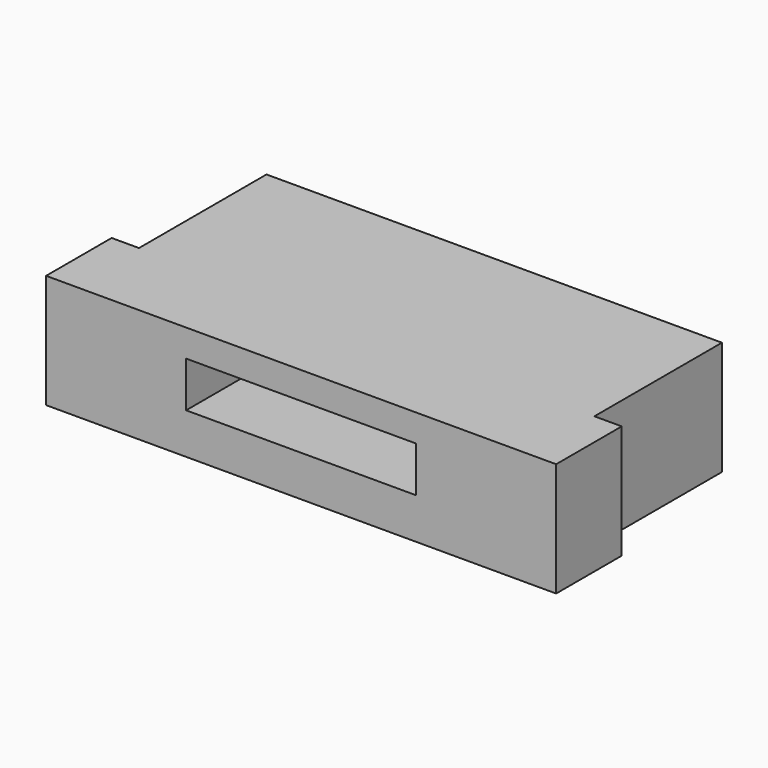
from build123d import *

# Parameters (mm, degrees)
SKETCH_W            = 11.2
SKETCH_H            = 5.3
PAD_DEPTH           = 2.5
SKETCH001_W         = 0.25
SKETCH001_H         = 1.6
PAD001_DEPTH        = 0.2
LINEARPATTERN_COUNT = 4
LINEARPATTERN_PITCH = 1
SKETCH002_W         = 0.6
SKETCH002_H         = 3.5
POCKET_DEPTH        = 29.28159
SKETCH003_W         = 5.05
SKETCH003_H         = 1
POCKET001_DEPTH     = 3


with BuildPart() as part:
    # Sketch → Pad (new body)
    with BuildSketch(Plane.XY):
        with Locations((0, -3.45)):
            Rectangle(SKETCH_W, SKETCH_H)
    extrude(amount=PAD_DEPTH)

    # Sketch001 → Pad001 (join)
    with BuildSketch(Plane.XY):
        with Locations((-1.5, 0)):
            Rectangle(SKETCH001_W, SKETCH001_H)
    pad001 = extrude(amount=PAD001_DEPTH)

    # LinearPattern: Pad001 ×4
    with Locations(*[(i * LINEARPATTERN_PITCH, 0, 0) for i in range(1, LINEARPATTERN_COUNT)]):
        add(pad001)

    # Sketch002 → Pocket (cut, through all)
    with BuildSketch(Plane.XY):
        with Locations((-5.3, -2.55)):
            Rectangle(SKETCH002_W, SKETCH002_H)
    pocket = extrude(amount=POCKET_DEPTH, mode=Mode.SUBTRACT)

    # Mirrored: Pocket across YZ
    add(pocket.mirror(Plane.YZ), mode=Mode.SUBTRACT)

    # Sketch003 (on Face3 of Mirrored) → Pocket001 (cut)
    with BuildSketch(Plane.XZ.offset(6.1)):
        with Locations((0, 1.4)):
            Rectangle(SKETCH003_W, SKETCH003_H)
    extrude(amount=-POCKET001_DEPTH, mode=Mode.SUBTRACT)


solid = part.part
